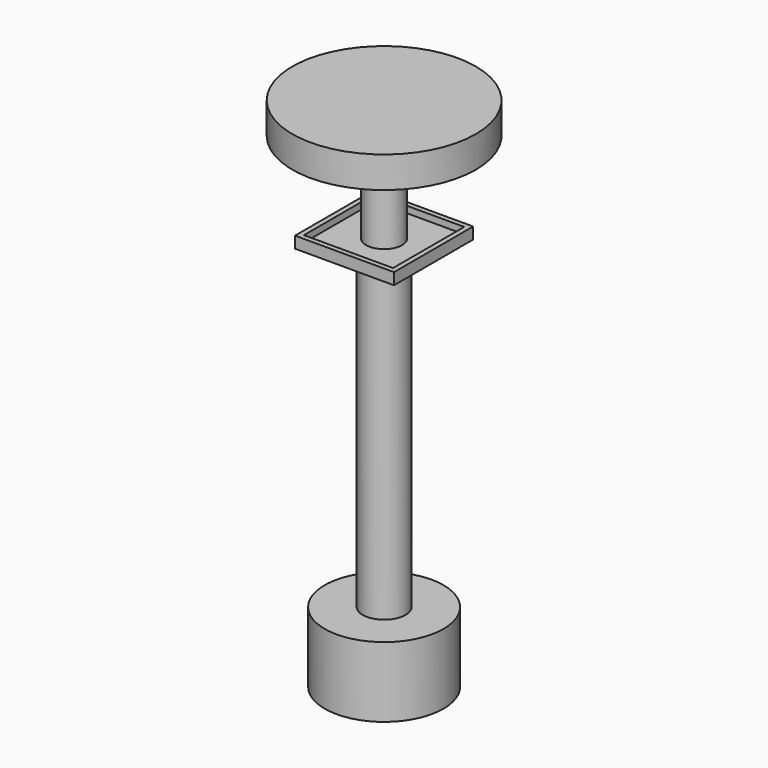
from build123d import *

# Parameters (mm, degrees)
F0_W      = 600
F0_H      = 600
F0_W_2    = 320
F0_H_2    = 320
F1_DEPTH  = 5
F2_W      = 600
F2_H      = 600
F3_DEPTH  = 65
F4_W      = 540
F4_H      = 540
F5_DEPTH  = 40
F6_R      = 109
F7_DEPTH  = 320
F8_R      = 109
F10_R     = 200
F12_R     = 200
F13_DEPTH = 65
F14_R     = 120
F15_DEPTH = 18
F16_R     = 65
F17_DEPTH = 35
F18_R     = 556
F19_DEPTH = 190
F20_R     = 130
F21_DEPTH = 1942
F22_R     = 360
F23_DEPTH = 426


with BuildPart() as f1:
    # F0 (on Top) → F1 (new body)
    with BuildSketch(Plane.XY):
        Rectangle(F0_W, F0_H)
        Rectangle(F0_W_2, F0_H_2, mode=Mode.SUBTRACT)
    extrude(amount=F1_DEPTH)

    # F2 (on face) → F3 (join)
    with BuildSketch(Plane.XY.offset(5)):
        Rectangle(F2_W, F2_H)
    extrude(amount=F3_DEPTH)

    # F4 (on face) → F5 (cut)
    with BuildSketch(Plane.XY.offset(70)):
        Rectangle(F4_W, F4_H)
    extrude(amount=-F5_DEPTH, mode=Mode.SUBTRACT)

    # F6 (on face) → F7 (join)
    with BuildSketch(Plane.XY.offset(30)):
        Circle(F6_R)
    extrude(amount=F7_DEPTH)

    # F8 (on face) → F11 section 0
    with BuildSketch(Plane.XY.offset(350)):
        Circle(F8_R)
    # F10 (on offset) → F11 section 1
    with BuildSketch(Plane.XY.offset(460)):
        Circle(F10_R)
    loft()

    # F12 (on face) → F13 (join)
    with BuildSketch(Plane.XY.offset(460)):
        Circle(F12_R)
    extrude(amount=F13_DEPTH)

    # F14 (on face) → F15 (join)
    with BuildSketch(Plane.XY.offset(525)):
        Circle(F14_R)
    extrude(amount=F15_DEPTH)

    # F16 (on face) → F17 (join)
    with BuildSketch(Plane.XY.offset(543)):
        Circle(F16_R)
    extrude(amount=F17_DEPTH)

    # F18 (on face) → F19 (join)
    with BuildSketch(Plane.XY.offset(578)):
        Circle(F18_R)
    extrude(amount=F19_DEPTH)

    # F20 (on face) → F21 (join)
    with BuildSketch(Plane(origin=(0, 0, 5), x_dir=(1, 0, 0), z_dir=(0, 0, -1))):
        Circle(F20_R)
    extrude(amount=F21_DEPTH)

    # F22 (on face) → F23 (join)
    with BuildSketch(Plane(origin=(0, 0, -1937), x_dir=(1, 0, 0), z_dir=(0, 0, -1))):
        Circle(F22_R)
    extrude(amount=F23_DEPTH)


solid = f1.part
